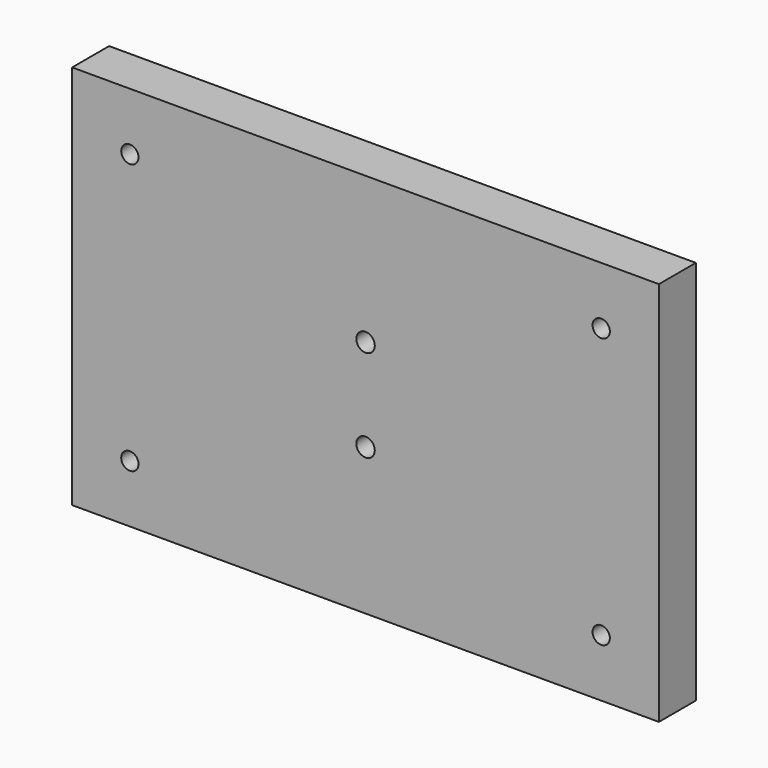
from build123d import *

# Parameters (mm, degrees)
F0_W     = 101.69682
F0_H     = 66.800862
F1_DEPTH = 4
F3_D     = 3
F4_D     = 3.2


with BuildPart() as f1:
    # F0 (on Front) → F1 (new body, symmetric)
    with BuildSketch(Plane.XZ):
        Rectangle(F0_W, F0_H)
    extrude(amount=F1_DEPTH, both=True)

    # F3 (through all)
    with Locations(Plane.XZ.offset(4)):
        with Locations((-40.84841, 23.400431), (40.84841, 23.400431), (40.84841, -23.400431), (-40.84841, -23.400431)):
            Hole(F3_D / 2)

    # F4 (through all)
    with Locations(Plane.XZ.offset(4)):
        with Locations((0, 8), (0, -8)):
            Hole(F4_D / 2)


solid = f1.part
